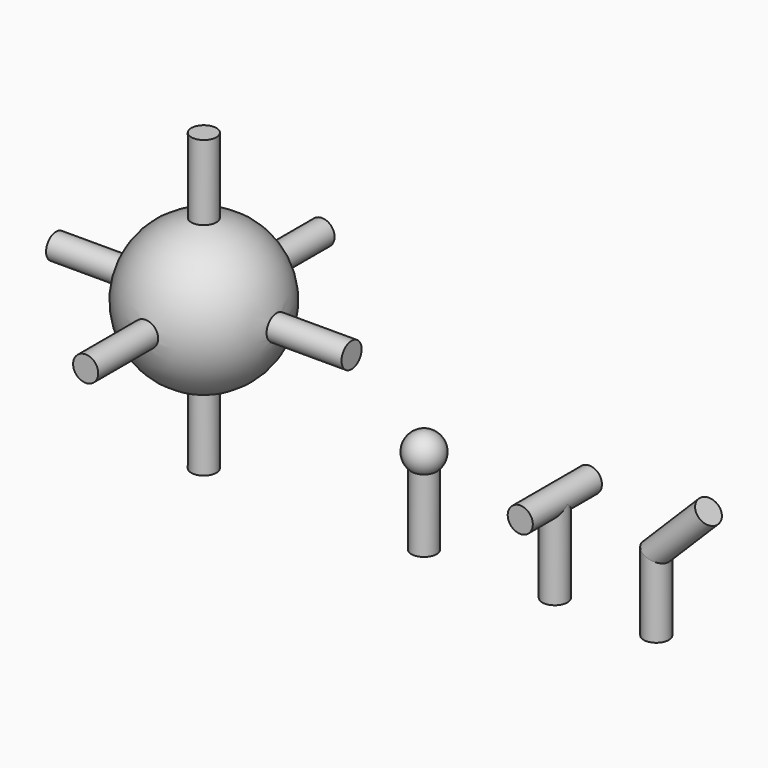
from build123d import *

# Parameters (mm, degrees)
F0_R      = 3.4
F1_DEPTH  = 20
F4_R      = 3.4
F5_DEPTH  = 23.4
F6_R      = 3.4
F7_DEPTH  = 11.7
F9_R      = 3.4
F11_R     = 3.4
F12_DEPTH = 80
F13_R     = 3.4
F14_DEPTH = 40
F17_R     = 3.4
F18_DEPTH = 40


with BuildPart() as f1:
    # F0 (on Top) → F1 (new body)
    with BuildSketch(Plane.XY):
        Circle(F0_R)
    extrude(amount=F1_DEPTH)

    # F2 (on Right) → F3 (revolve)
    with BuildSketch(Plane.YZ):
        with BuildLine():
            Line((0, 28.3186986297), (0, 18.3186986297))
            ThreePointArc((0, 18.3186986297), (5, 23.3186986297), (0, 28.3186986297))
        make_face()
    revolve(axis=Axis((0, 0, 0), (0, 0, -1)))


with BuildPart() as f5:
    # F4 (on Top) → F5 (new body)
    with BuildSketch(Plane.XY):
        with Locations((35.422001034, 0)):
            Circle(F4_R)
    extrude(amount=F5_DEPTH)

    # F6 (on Front) → F7 (join, symmetric)
    with BuildSketch(Plane.XZ):
        with Locations((35.422001034, 23.4)):
            Circle(F6_R)
    extrude(amount=F7_DEPTH, both=True)


with BuildPart() as f10:
    # F10: sweep along a path in F8
    with BuildLine(Plane.XZ) as f10_path:
        Line((62.8952607512, 0), (62.8952607512, 20))
        Line((62.8952607512, 20), (77.037396375, 34.1421356237))
    # F9 (on Top) → F10 (sweep)
    with BuildSketch(Plane.XY):
        with Locations((62.8952607512, 0)):
            Circle(F9_R)
    sweep(path=f10_path.line, transition=Transition.RIGHT)


with BuildPart() as f12:
    # F11 (on Top) → F12 (new body)
    with BuildSketch(Plane.XY):
        with Locations((-59.6195495504, 0)):
            Circle(F11_R)
    extrude(amount=F12_DEPTH)

    # F13 (on Front) → F14 (join, symmetric)
    with BuildSketch(Plane.XZ):
        with Locations((-59.6195495504, 40)):
            Circle(F13_R)
    extrude(amount=F14_DEPTH, both=True)

    # F17 (on plane+point) → F18 (join, symmetric)
    with BuildSketch(Plane.YZ.offset(-59.6195495504)):
        with Locations((0, 40)):
            Circle(F17_R)
    extrude(amount=F18_DEPTH, both=True)

    # F19 (on Front) → F20 (revolve)
    with BuildSketch(Plane.XZ):
        with BuildLine():
            Line((-59.6195495504, 20), (-59.6195495504, 60))
            ThreePointArc((-59.6195495504, 60), (-79.6195495504, 40), (-59.6195495504, 20))
        make_face()
    revolve(axis=Axis((-59.6195495504, 0, 40), (0, 0, -1)))


solid = Compound([f1.part, f5.part, f10.part, f12.part])
